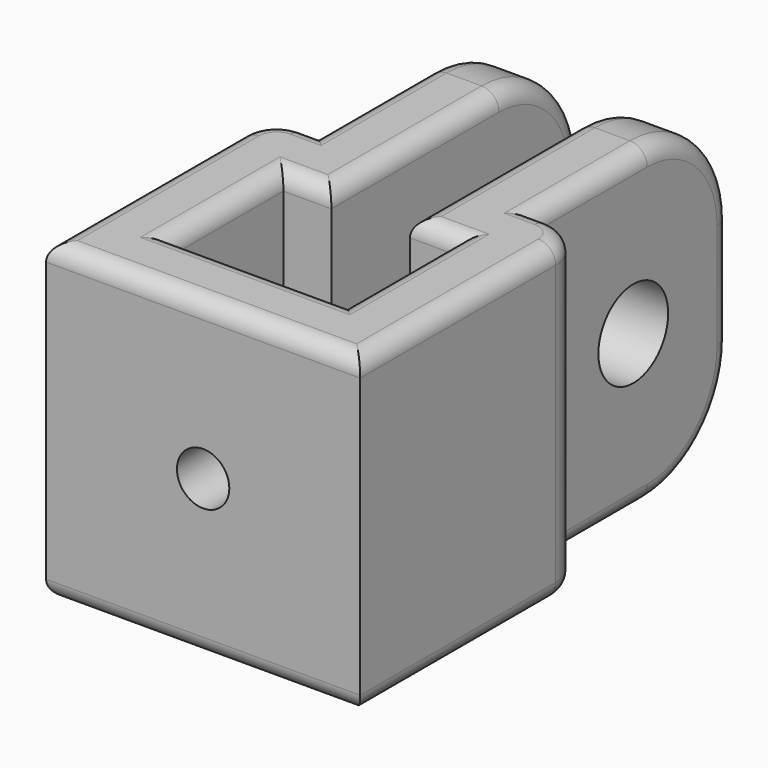
from build123d import *

# Parameters (mm, degrees)
PAD_DEPTH       = 18
SKETCH002_R     = 2.5
POCKET_DEPTH    = 15.251
SKETCH003_R     = 1.5
POCKET001_DEPTH = 30.001
FILLET_R        = 2
FILLET001_R     = 6
FILLET002_R     = 1


with BuildPart() as part:
    # Sketch → Pad (new body)
    with BuildSketch(Plane.XY):
        Polygon((-9, 0), (9, 0), (9, 16), (6.25, 16), (6.25, 30), (2.25, 30), (2.25, 12), (5, 12), (5, 4), (-5, 4), (-5, 12), (-2.25, 12), (-2.25, 30), (-6.25, 30), (-6.25, 16), (-9, 16), align=None)
    extrude(amount=PAD_DEPTH)

    # Sketch002 (on Face15 of Pad) → Pocket (cut, through all)
    with BuildSketch(Plane(origin=(-6.25, 0, 0), x_dir=(0, -1, 0), z_dir=(-1, 0, 0))):
        with Locations((-23, 9)):
            Circle(SKETCH002_R)
    extrude(amount=-POCKET_DEPTH, mode=Mode.SUBTRACT)

    # Sketch003 (on Face2 of Pocket) → Pocket001 (cut, through all)
    with BuildSketch(Plane.XZ):
        with Locations((0, 9)):
            Circle(SKETCH003_R)
    extrude(amount=-POCKET001_DEPTH, mode=Mode.SUBTRACT)

    # Fillet
    fillet_edges = [part.edges().sort_by_distance(p)[0] for p in [
        (-9, 16, 9),
        (9, 16, 9),
    ]]
    fillet(fillet_edges, radius=FILLET_R)

    # Fillet001
    fillet001_edges = [part.edges().sort_by_distance(p)[0] for p in [
        (4.25, 30, 0),
        (-4.25, 30, 0),
        (4.25, 30, 18),
        (-4.25, 30, 18),
    ]]
    fillet(fillet001_edges, radius=FILLET001_R)

    # Fillet002
    fillet002_edges = [part.edges().sort_by_distance(p)[0] for p in [
        (-6.25, 20, 18),
        (-4.25, 24, 18),
        (-6.625, 16, 18),
        (-2.25, 18, 18),
        (-8.414214, 15.414214, 18),
        (-3.625, 12, 18),
        (-9, 7, 18),
        (-5, 8, 18),
        (0, 0, 18),
        (0, 4, 18),
        (9, 7, 18),
        (5, 8, 18),
        (8.414214, 15.414214, 18),
        (3.625, 12, 18),
        (6.625, 16, 18),
        (2.25, 18, 18),
        (6.25, 20, 18),
        (4.25, 24, 18),
        (-6.25, 20, 0),
        (-4.25, 24, 0),
        (-6.625, 16, 0),
        (-2.25, 18, 0),
        (-8.414214, 15.414214, 0),
        (-3.625, 12, 0),
        (-9, 7, 0),
        (-5, 8, 0),
        (0, 0, 0),
        (0, 4, 0),
        (9, 7, 0),
        (5, 8, 0),
        (8.414214, 15.414214, 0),
        (3.625, 12, 0),
        (6.625, 16, 0),
        (2.25, 18, 0),
        (6.25, 20, 0),
        (4.25, 24, 0),
    ]]
    fillet(fillet002_edges, radius=FILLET002_R)


solid = part.part
